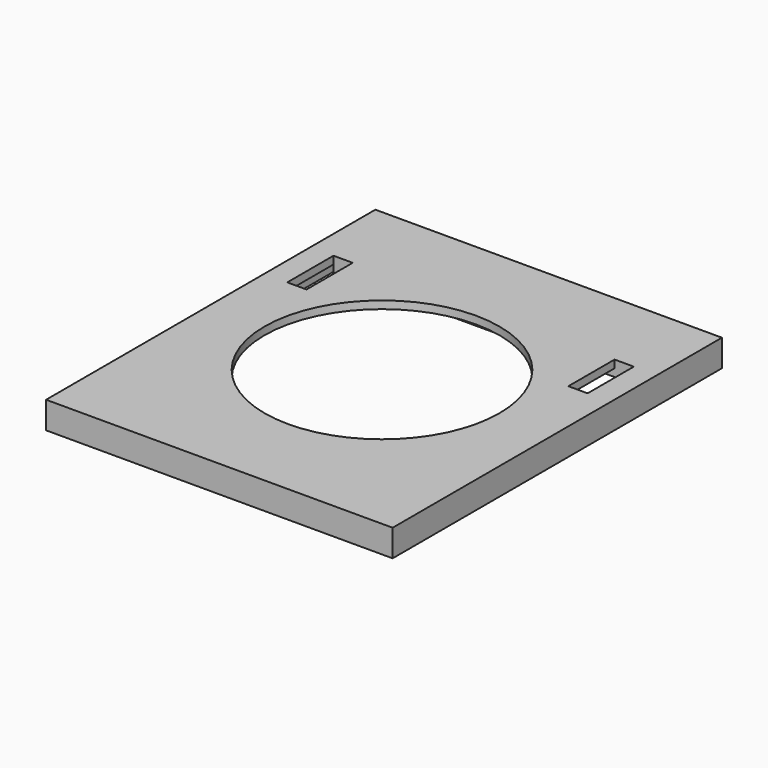
from build123d import *

# Parameters (mm, degrees)
SKETCH043_W         = 90
SKETCH043_H         = 106.9
PAD015_DEPTH        = 7
SKETCH044_W         = 86
SKETCH044_H         = 102.9
POCKET025_DEPTH     = 5
SKETCH045_R         = 30.5
POCKET026_DEPTH     = 2
SKETCH060_W         = 78
SKETCH060_H         = 15
PAD019_DEPTH        = 2
SKETCH061_R         = 5.25
POCKET038_DEPTH     = 2
LINEARPATTERN_COUNT = 5
LINEARPATTERN_PITCH = 16.5
SKETCH062_W         = 5
SKETCH062_H         = 15
POCKET039_DEPTH     = 7.001


with BuildPart() as part:
    # Sketch043 → Pad015 (new body)
    with BuildSketch(Plane.XY):
        with Locations((0, -10.35)):
            Rectangle(SKETCH043_W, SKETCH043_H)
    extrude(amount=PAD015_DEPTH)

    # Sketch044 (on Face5 of Pad015) → Pocket025 (cut)
    with BuildSketch(Plane(origin=(0, 0, 0), x_dir=(1, 0, 0), z_dir=(0, 0, -1))):
        with Locations((0, 10.35)):
            Rectangle(SKETCH044_W, SKETCH044_H)
    extrude(amount=-POCKET025_DEPTH, mode=Mode.SUBTRACT)

    # Sketch045 (on Face5 of Pocket025) → Pocket026 (cut)
    with BuildSketch(Plane.XY.offset(7)):
        with Locations((0, -11)):
            Circle(SKETCH045_R)
    extrude(amount=-POCKET026_DEPTH, mode=Mode.SUBTRACT)

    # Sketch060 (on Face12 of Pocket026) → Pad019 (join)
    with BuildSketch(Plane(origin=(0, 0, 5), x_dir=(1, 0, 0), z_dir=(0, 0, -1))):
        with Locations((0, -29.5)):
            Rectangle(SKETCH060_W, SKETCH060_H)
    extrude(amount=PAD019_DEPTH)

    # Sketch061 (on Face17 of Pad019) → Pocket038 (cut)
    with BuildSketch(Plane(origin=(0, 0, 3), x_dir=(1, 0, 0), z_dir=(0, 0, -1))):
        with Locations((-33, -29.5)):
            Circle(SKETCH061_R)
    pocket038 = extrude(amount=-POCKET038_DEPTH, mode=Mode.SUBTRACT)

    # LinearPattern: Pocket038 ×5
    with Locations(*[(i * LINEARPATTERN_PITCH, 0, 0) for i in range(1, LINEARPATTERN_COUNT)]):
        add(pocket038, mode=Mode.SUBTRACT)

    # Sketch062 (on Face5 of LinearPattern) → Pocket039 (cut, through all)
    with BuildSketch(Plane.XY.offset(7)):
        with Locations((-36.5, 14.5)):
            Rectangle(SKETCH062_W, SKETCH062_H)
        with Locations((36.5, 14.5)):
            Rectangle(SKETCH062_W, SKETCH062_H)
    extrude(amount=-POCKET039_DEPTH, mode=Mode.SUBTRACT)


with BuildPart() as part_1:
    # Body002 placement: moved
    add(part.part.moved(Location((0, 0, 25))))


solid = part_1.part
